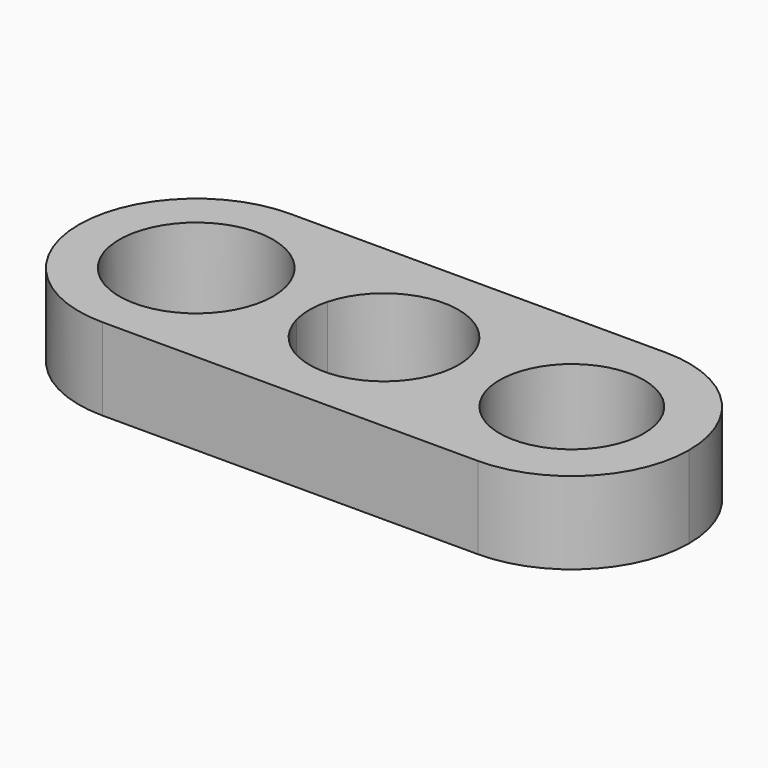
from build123d import *

# Parameters (mm, degrees)
F0_R     = 6.55
F0_R_2   = 6.15
F1_DEPTH = 7


with BuildPart() as f1:
    # F0 (on Top) → F1 (new body)
    with BuildSketch(Plane.XY):
        with BuildLine():
            ThreePointArc((-22.924472, 4.15712), (-23.139394, 5.795203), (-22.924472, 7.433286))
            ThreePointArc((-22.924472, 7.433286), (-26.323361, 13.423467), (-32.789394, 15.795203))
            ThreePointArc((-32.789394, 15.795203), (-42.789394, 5.795203), (-32.789394, -4.204797))
            ThreePointArc((-32.789394, -4.204797), (-26.323361, -1.833062), (-22.924472, 4.15712))
        make_face()
        with Locations((-32.789394, 5.795203)):
            Circle(F0_R, mode=Mode.SUBTRACT)
        with BuildLine():
            ThreePointArc((-0.789394, -4.204797), (-7.255427, -1.833062), (-10.654316, 4.15712))
            ThreePointArc((-10.654316, 4.15712), (-16.789394, -0.554797), (-22.924472, 4.15712))
            ThreePointArc((-22.924472, 4.15712), (-26.323361, -1.833062), (-32.789394, -4.204797))
            Line((-32.789394, -4.204797), (-0.789394, -4.204797))
        make_face()
        with BuildLine():
            ThreePointArc((-22.924472, 7.433286), (-16.789394, 12.145203), (-10.654316, 7.433286))
            ThreePointArc((-10.654316, 7.433286), (-7.255427, 13.423467), (-0.789394, 15.795203))
            Line((-0.789394, 15.795203), (-32.789394, 15.795203))
            ThreePointArc((-32.789394, 15.795203), (-26.323361, 13.423467), (-22.924472, 7.433286))
        make_face()
        with BuildLine():
            ThreePointArc((-10.654316, 7.433286), (-10.493353, 6.621264), (-10.439394, 5.795203))
            ThreePointArc((-10.439394, 5.795203), (-10.493353, 4.969142), (-10.654316, 4.15712))
            ThreePointArc((-10.654316, 4.15712), (-7.255427, -1.833062), (-0.789394, -4.204797))
            ThreePointArc((-0.789394, -4.204797), (6.281674, -1.275865), (9.210606, 5.795203))
            ThreePointArc((9.210606, 5.795203), (6.281674, 12.86627), (-0.789394, 15.795203))
            ThreePointArc((-0.789394, 15.795203), (-7.255427, 13.423467), (-10.654316, 7.433286))
        make_face()
        with Locations((-0.789394, 5.795203)):
            Circle(F0_R_2, mode=Mode.SUBTRACT)
    extrude(amount=F1_DEPTH)


solid = f1.part
